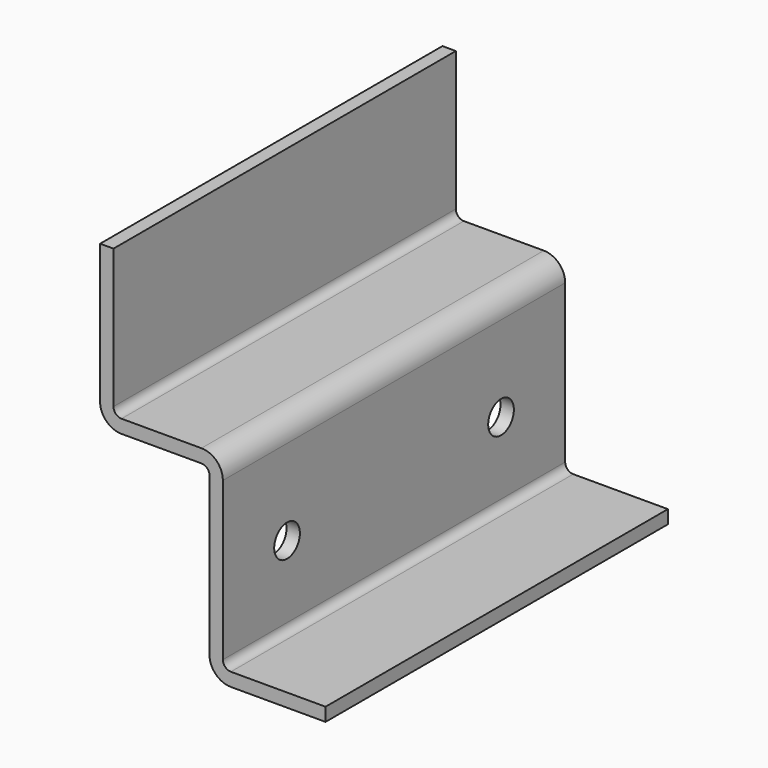
from build123d import *

# Parameters (mm, degrees)
F1_DEPTH = 160
F3_D     = 12


with BuildPart() as f1:
    # F0 (on Front) → F1 (new body)
    with BuildSketch(Plane.XZ):
        with BuildLine():
            Line((-35.892856, 34.607142), (-40.892856, 34.607142))
            Line((-40.892856, 34.607142), (-40.892856, -17.392858))
            ThreePointArc((-40.892856, -17.392858), (-38.54971, -23.049712), (-32.892856, -25.392858))
            Line((-32.892856, -25.392858), (-3, -25.392858))
            ThreePointArc((-3, -25.392858), (-0.87868, -26.271537), (0, -28.392858))
            Line((0, -28.392858), (0, -87.392858))
            ThreePointArc((0, -87.392858), (2.343146, -93.049712), (8, -95.392858))
            Line((8, -95.392858), (43.392855, -95.392858))
            Line((43.392855, -95.392858), (43.392855, -90.392858))
            Line((43.392855, -90.392858), (8, -90.392858))
            ThreePointArc((8, -90.392858), (5.87868, -89.514178), (5, -87.392858))
            Line((5, -87.392858), (5, -28.392858))
            ThreePointArc((5, -28.392858), (2.656854, -22.736003), (-3, -20.392858))
            Line((-3, -20.392858), (-32.892856, -20.392858))
            ThreePointArc((-32.892856, -20.392858), (-35.014176, -19.514178), (-35.892856, -17.392858))
            Line((-35.892856, -17.392858), (-35.892856, 34.607142))
        make_face()
    extrude(amount=F1_DEPTH)

    # F3 (through all)
    with Locations(Plane(origin=(0, 0, 0), x_dir=(0, -1, 0), z_dir=(-1, 0, 0))):
        with Locations((30, -60.392858), (130, -60.392858)):
            Hole(F3_D / 2)


solid = f1.part
